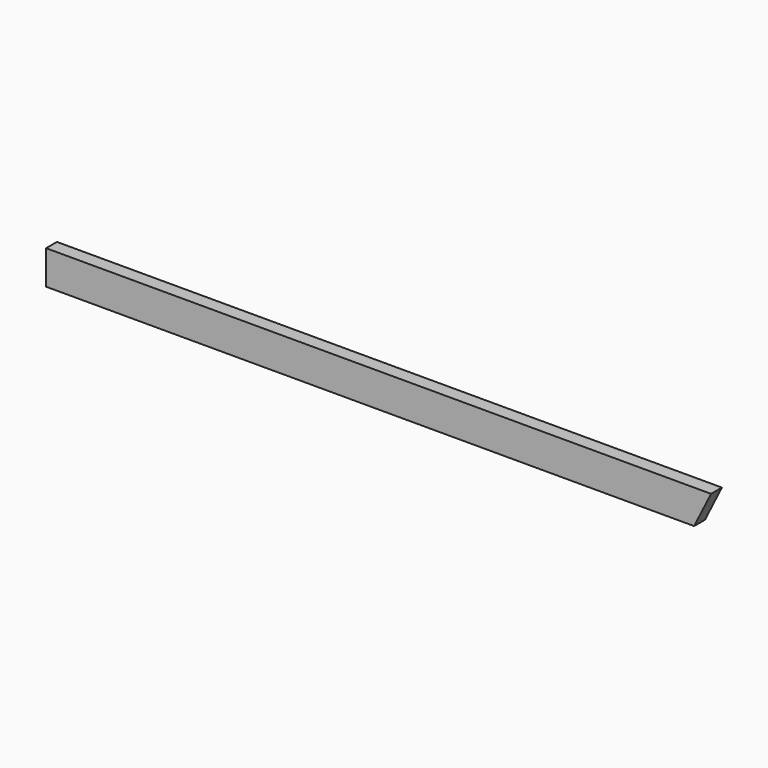
from build123d import *

# Parameters (mm, degrees)
F0_W          = 50
F0_H          = 125
F1_DEPTH      = 2450
F3_DEPTH      = 25
F3_DEPTH_BACK = 25


with BuildPart() as f1:
    # F0 (on Right) → F1 (new body)
    with BuildSketch(Plane.YZ):
        Rectangle(F0_W, F0_H)
    extrude(amount=-F1_DEPTH)

    # F2 (on Front) → F3 (cut, two sides)
    with BuildSketch(Plane.XZ) as f3_sk:
        Polygon((0, -62.5), (0, 62.5), (-62.5, -62.5), align=None)
    extrude(amount=-F3_DEPTH, mode=Mode.SUBTRACT)
    extrude(f3_sk.sketch, amount=F3_DEPTH_BACK, mode=Mode.SUBTRACT)


solid = f1.part
